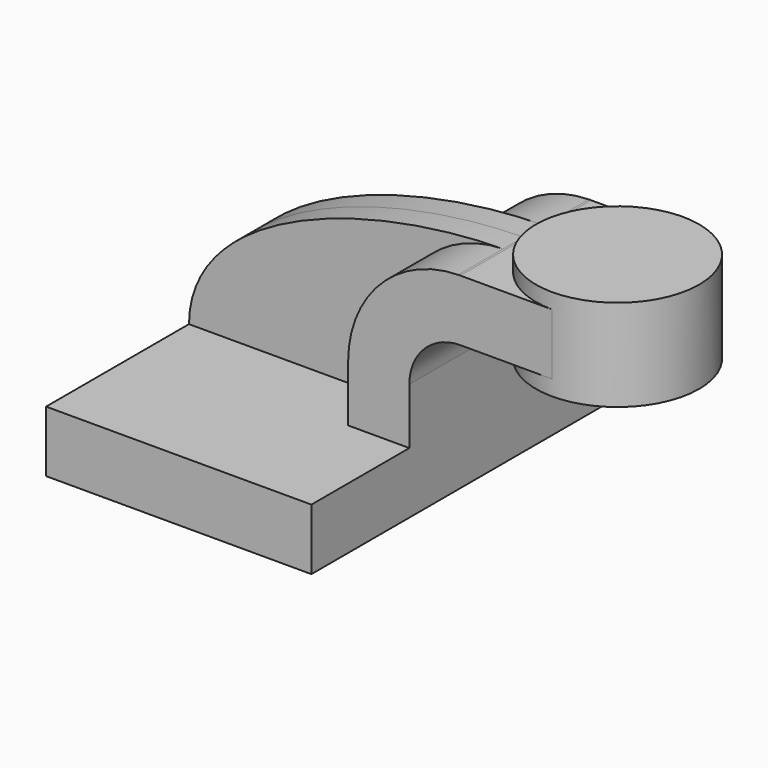
from build123d import *

# Parameters (mm, degrees)
F1_DEPTH = 63.5
F0_W     = 25.4
F0_H     = 19.05
F2_DEPTH = 25.4
F3_DEPTH = 7.9375


with BuildPart() as f1:
    # F0 (on Front) → F1 (new body, symmetric)
    with BuildSketch(Plane.XZ):
        Polygon((41.275, -9.525), (41.275, 9.525), (22.225, 9.525), (-41.275, 9.525), (-41.275, -9.525), align=None)
    extrude(amount=F1_DEPTH, both=True)

    # F0 (on Front) → F2 (join, symmetric)
    with BuildSketch(Plane.XZ):
        with Locations((73.025, 52.4002)):
            Rectangle(F0_W, F0_H)
        with BuildLine():
            Line((22.225, 9.525), (41.275, 9.525))
            Line((41.275, 9.525), (41.275, 27.0002))
            ThreePointArc((41.275, 27.0002), (45.9246798487, 38.2255201513), (57.15, 42.8752))
            Line((57.15, 42.8752), (60.325, 42.8752))
            Line((60.325, 42.8752), (60.325, 61.9252))
            Line((60.325, 61.9252), (57.15, 61.9252))
            add(Edge.make_bspline(
                [(56.5012045557, 61.9191732018), (56.7176813498, 61.9216130278), (56.9339488866, 61.9236220913), (57.15, 61.9252)],
                knots=[110.9630693968, 110.9630693968, 110.9630693968, 110.9630693968, 111.5045361635, 111.5045361635, 111.5045361635, 111.5045361635], degree=3))
            ThreePointArc((56.5012045557, 61.9191732018), (32.2259673619, 51.4654451869), (22.225, 27.0002))
            Line((22.225, 27.0002), (22.225, 9.525))
        make_face()
    extrude(amount=F2_DEPTH, both=True)

    # F0 (on Front) → F3 (join, symmetric)
    with BuildSketch(Plane.XZ):
        with BuildLine():
            Line((-41.275, 9.525), (22.225, 9.525))
            Line((22.225, 9.525), (22.225, 27.0002))
            ThreePointArc((22.225, 27.0002), (32.2259673619, 51.4654451869), (56.5012045557, 61.9191732018))
            add(Edge.make_bspline(
                [(-41.275, 9.525), (-41.0122764768, 42.8286605667), (12.1385012456, 61.4191783861), (56.5012045557, 61.9191732018)],
                knots=[0, 0, 0, 0, 110.9630693968, 110.9630693968, 110.9630693968, 110.9630693968], degree=3))
        make_face()
    extrude(amount=F3_DEPTH, both=True)

    # F0 (on Front) → F4 (revolve)
    with BuildSketch(Plane.XZ):
        Polygon((85.725, 61.9252), (85.725, 42.8752), (85.725, 38.1), (111.125, 38.1), (111.125, 66.675), (85.725, 66.675), align=None)
    revolve(axis=Axis((85.725, 0, 52.3875), (0, 0, 1)))


solid = f1.part
